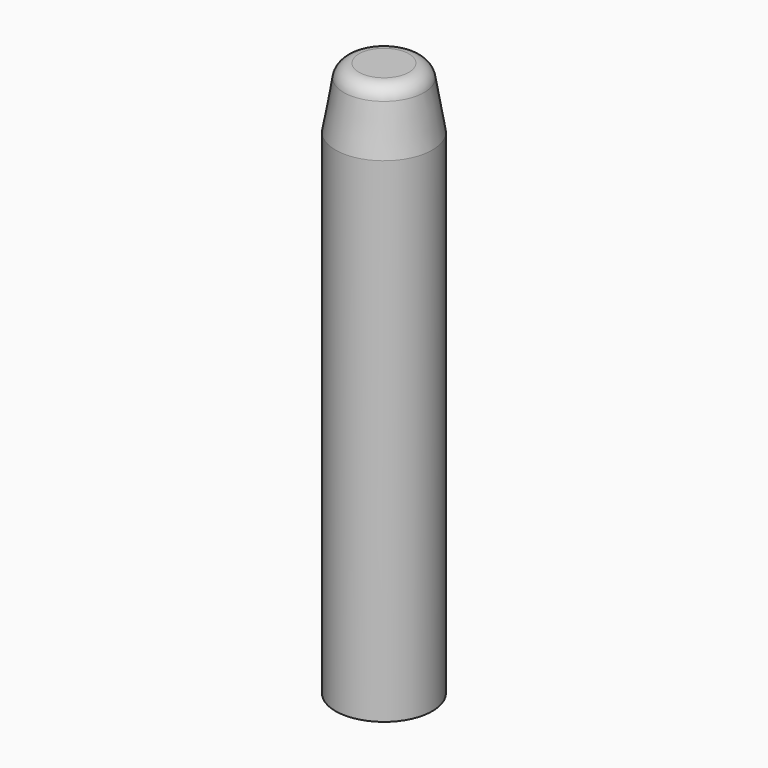
from build123d import *

# Parameters (mm, degrees)
F2_R    = 2.032
F3_SIZE = 0.762


with BuildPart() as f1:
    # F0 (on Front) → F1 (revolve)
    with BuildSketch(Plane.XZ):
        Polygon((-6.373, 65), (-6.373, 0), (-3.127, 0), (-3.127, 60), (0, 60), (0, 73), (-5, 73), align=None)
    revolve(axis=Axis((0, 0, 66.5), (0, 0, -1)))

    # F2
    f2_edges = [f1.edges().sort_by_distance(p)[0] for p in [
        (5, 0, 73),
    ]]
    fillet(f2_edges, radius=F2_R)

    # F3
    f3_edges = [f1.edges().sort_by_distance(p)[0] for p in [
        (3.127, 0, 0),
    ]]
    chamfer(f3_edges, length=F3_SIZE)


solid = f1.part
